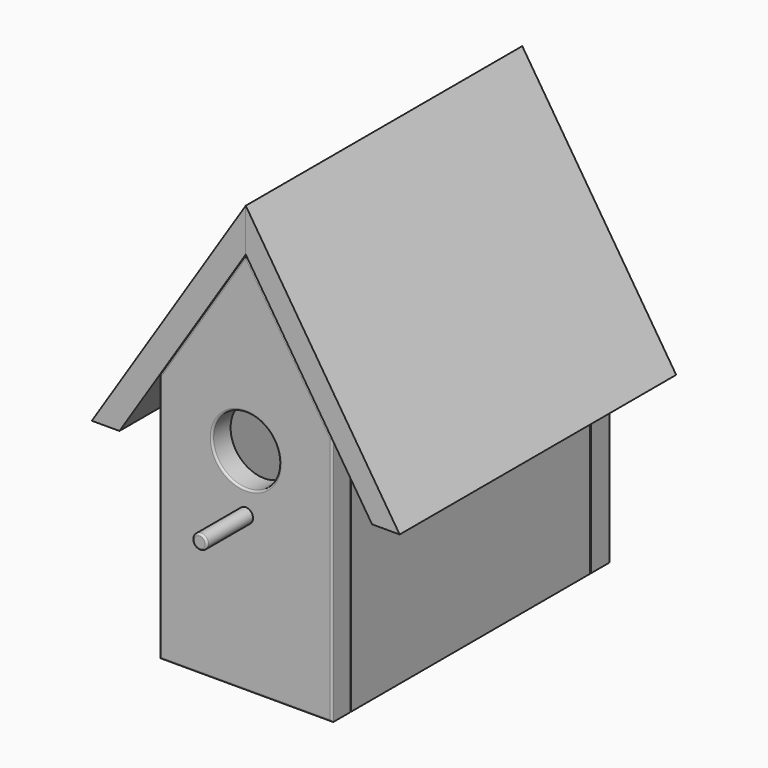
from build123d import *

# Parameters (mm, degrees)
F0_R      = 17.5
F1_DEPTH  = 12
F3_DEPTH  = 180
F4_DEPTH  = 180
F6_START  = -12.3
F5_W      = 12
F5_H      = 130
F6_DEPTH  = 155.7
F10_START = -12.3
F10_DEPTH = 155.7
F11_R     = 3.8023724062
F12_DEPTH = 30
F13_R     = 1
F14_R     = 1


with BuildPart() as f1:
    # F0 (on Front) → F1 (new body)
    with BuildSketch(Plane.XZ):
        Polygon((-45, -65), (45, -65), (45, 65), (0, 135), (-45, 65), align=None)
        with Locations((0, 45.0222715735)):
            Circle(F0_R, mode=Mode.SUBTRACT)
    extrude(amount=F1_DEPTH)


with BuildPart() as f3:
    # F2 (on face) → F3 (new body)
    with BuildSketch(Plane.XZ.offset(12)):
        Polygon((0, 135), (0, 157.3820273096), (-80.1481010036, 32.7072035262), (-65.759654876, 32.7072035262), (-45, 65), align=None)
    extrude(amount=-F3_DEPTH)

    # F7: F6 across plane


with BuildPart() as f4:
    # F2 (on face) → F4 (new body)
    with BuildSketch(Plane.XZ.offset(12)):
        Polygon((80.1481010036, 32.7072035262), (0, 157.3820273096), (0, 135), (45, 65), (65.759654876, 32.7072035262), align=None)
    extrude(amount=-F4_DEPTH)


with BuildPart() as f6:
    # F5 (on face) → F6 (new body)
    with BuildSketch(Plane.XZ.offset(12).offset(F6_START)):
        with Locations((39, 0)):
            Rectangle(F5_W, F5_H)
    extrude(amount=-F6_DEPTH)


with BuildPart() as f3_1:
    add(f3.part)
    add(f6.part.mirror(Plane.YZ))


with BuildPart() as f8_1:
    # F8: copy of F1
    add(f1.part.moved(Location((0, 168.4, 0))))


with BuildPart() as f10:
    # F9 (on face) → F10 (new body)
    with BuildSketch(Plane(origin=(0, 168.4, 0), x_dir=(-1, 0, 0), z_dir=(0, 1, 0)).offset(F10_START)):
        Polygon((-33, -65), (33, -65), (33, -59), (0, -59), (-33, -59), align=None)
        Polygon((0, -59), (33, -59), (33, -53), (-33, -53), (-33, -59), align=None)
    extrude(amount=-F10_DEPTH)


with BuildPart() as f12:
    # F11 (on face) → F12 (new body)
    with BuildSketch(Plane.XZ.offset(12)):
        with Locations((0, 15.3346452862)):
            Circle(F11_R)
    extrude(amount=F12_DEPTH)

    # F13
    f13_edges = [f12.edges().sort_by_distance(p)[0] for p in [
        (-3.802372, -42, 15.334645),
    ]]
    fillet(f13_edges, radius=F13_R)


with BuildPart() as f1_1:
    add(f1.part)

    # F14
    f14_edges = [f1_1.edges().sort_by_distance(p)[0] for p in [
        (-22.5, -12, 100),
        (-45, -12, 0),
        (0, -12, -65),
        (45, -12, 0),
        (22.5, -12, 100),
        (-17.5, -12, 45.022272),
    ]]
    fillet(f14_edges, radius=F14_R)


solid = Compound([f4.part, f6.part, f3_1.part, f8_1.part, f10.part, f12.part, f1_1.part])
